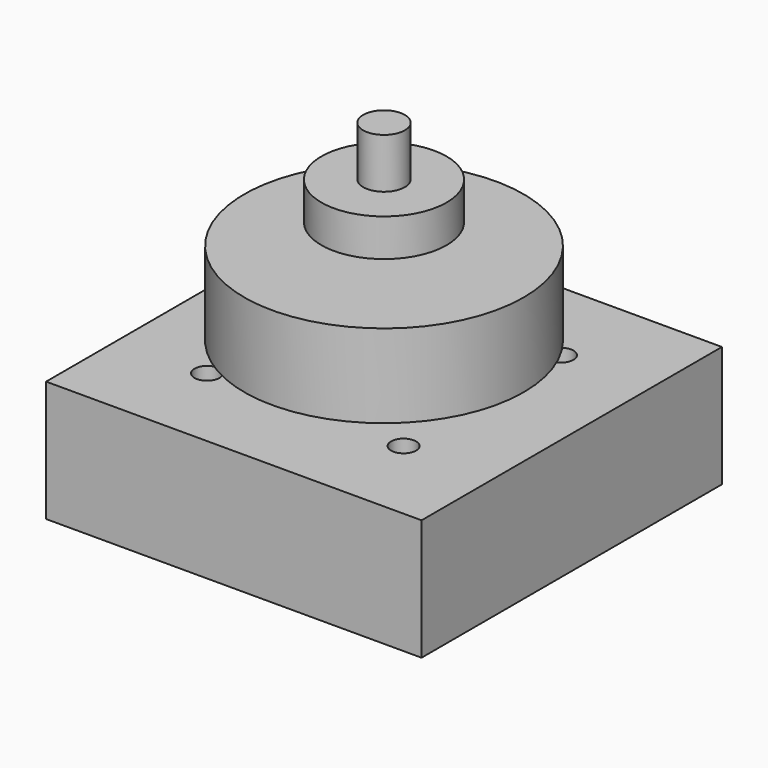
from build123d import *

# Parameters (mm, degrees)
F2_R        = 8.25
F2_R_2      = 5
F2_R_3      = 3.175
F3_DEPTH    = 20
F4_START    = 20
F4_DEPTH    = 60
F6_START    = 20
F5_R        = 15
F5_R_2      = 5
F6_DEPTH    = 9
F7_START    = 30
F6_FACE_R   = 15
F6_FACE_R_2 = 5
F7_DEPTH    = 9
F9_START    = 34
F8_R        = 33.5
F8_R_2      = 5
F9_DEPTH    = 20
F10_START   = 3
F1_W        = 90
F1_H        = 90
F1_R        = 3
F1_R_2      = 19.05
F1_R_3      = 15
F10_DEPTH   = 26
F11_DEPTH   = 3


with BuildPart() as f3:
    # F2 (on Top) → F3 (new body)
    with BuildSketch(Plane.XY):
        Circle(F2_R)
        Circle(F2_R_2, mode=Mode.SUBTRACT)
        Circle(F2_R_2)
        Circle(F2_R_3, mode=Mode.SUBTRACT)
    extrude(amount=F3_DEPTH)

    # F2 (on Top) → F4 (join)
    with BuildSketch(Plane.XY.offset(F4_START)):
        Circle(F2_R_2)
        Circle(F2_R_3, mode=Mode.SUBTRACT)
        Circle(F2_R_3)
    extrude(amount=F4_DEPTH)

    # F5 (on Top) → F6 (join)
    with BuildSketch(Plane.XY.offset(F6_START)):
        Circle(F5_R)
        Circle(F5_R_2, mode=Mode.SUBTRACT)
    extrude(amount=F6_DEPTH)

    # F6_face (on face) → F7 (join)
    with BuildSketch(Plane.XY.offset(29).offset(F7_START)):
        Circle(F6_FACE_R)
        Circle(F6_FACE_R_2, mode=Mode.SUBTRACT)
    extrude(amount=F7_DEPTH)

    # F1 (on Top) → F10 (join)
    with BuildSketch(Plane.XY.offset(F10_START)):
        Rectangle(F1_W, F1_H)
        with Locations((-23.5890189799, -23.5573149959)):
            Circle(F1_R, mode=Mode.SUBTRACT)
        with Locations((23.5509810201, -23.57)):
            Circle(F1_R, mode=Mode.SUBTRACT)
        with Locations((-23.5636557912, 23.5826850041)):
            Circle(F1_R, mode=Mode.SUBTRACT)
        Circle(F1_R_2, mode=Mode.SUBTRACT)
        with Locations((23.5763442088, 23.57)):
            Circle(F1_R, mode=Mode.SUBTRACT)
        Circle(F1_R_2)
        Circle(F1_R_3, mode=Mode.SUBTRACT)
    extrude(amount=F10_DEPTH)

    # F1 (on Top) → F11 (join)
    with BuildSketch(Plane.XY):
        Rectangle(F1_W, F1_H)
        with Locations((-23.5890189799, -23.5573149959)):
            Circle(F1_R, mode=Mode.SUBTRACT)
        with Locations((23.5509810201, -23.57)):
            Circle(F1_R, mode=Mode.SUBTRACT)
        with Locations((-23.5636557912, 23.5826850041)):
            Circle(F1_R, mode=Mode.SUBTRACT)
        Circle(F1_R_2, mode=Mode.SUBTRACT)
        with Locations((23.5763442088, 23.57)):
            Circle(F1_R, mode=Mode.SUBTRACT)
    extrude(amount=F11_DEPTH)


with BuildPart() as f9:
    # F8 (on Top) → F9 (new body)
    with BuildSketch(Plane.XY.offset(F9_START)):
        Circle(F8_R)
        Circle(F8_R_2, mode=Mode.SUBTRACT)
    extrude(amount=F9_DEPTH)


solid = Compound([f3.part, f9.part])
